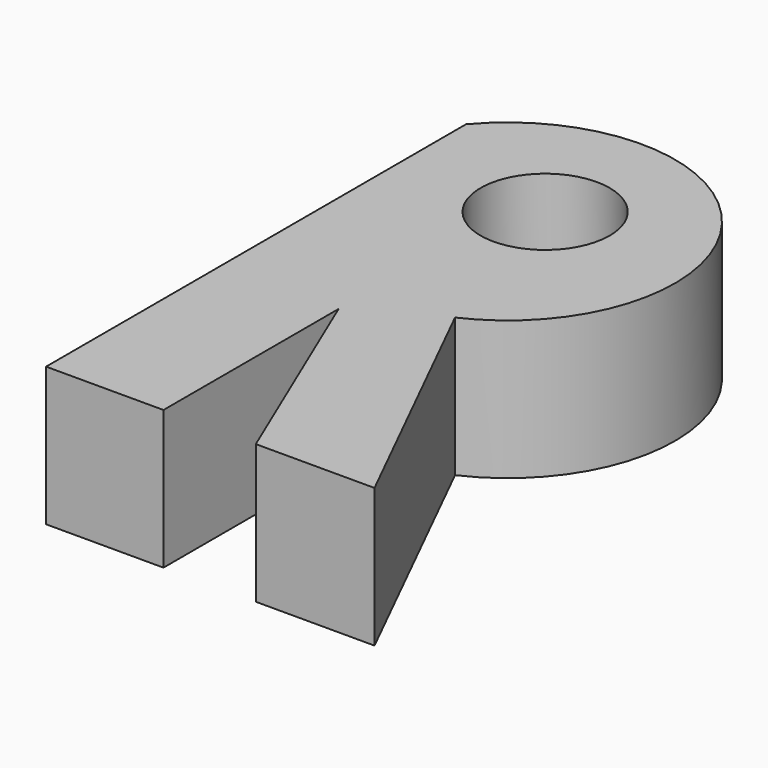
from build123d import *

# Parameters (mm, degrees)
F1_DEPTH = 12.7
F2_R     = 5.905857
F3_DEPTH = 25.4


with BuildPart() as f1:
    # F0 (on Top) → F1 (new body)
    with BuildSketch(Plane.XY):
        with BuildLine():
            Line((0, 48.02762), (0, 0))
            Line((0, 0), (10.74041, 0))
            Line((10.74041, 0), (10.74041, 20.030156))
            Line((10.74041, 20.030156), (19.187918, 0))
            Line((19.187918, 0), (30.046732, 0))
            Line((30.046732, 0), (18.06753, 24.186372))
            ThreePointArc((18.06753, 24.186372), (23.922272, 47.389901), (0, 48.02762))
        make_face()
    extrude(amount=F1_DEPTH)

    # F2 (on face) → F3 (cut)
    with BuildSketch(Plane.XY.offset(12.7)):
        with Locations((12.875857, 40.980149)):
            Circle(F2_R)
    extrude(amount=-F3_DEPTH, mode=Mode.SUBTRACT)


solid = f1.part
